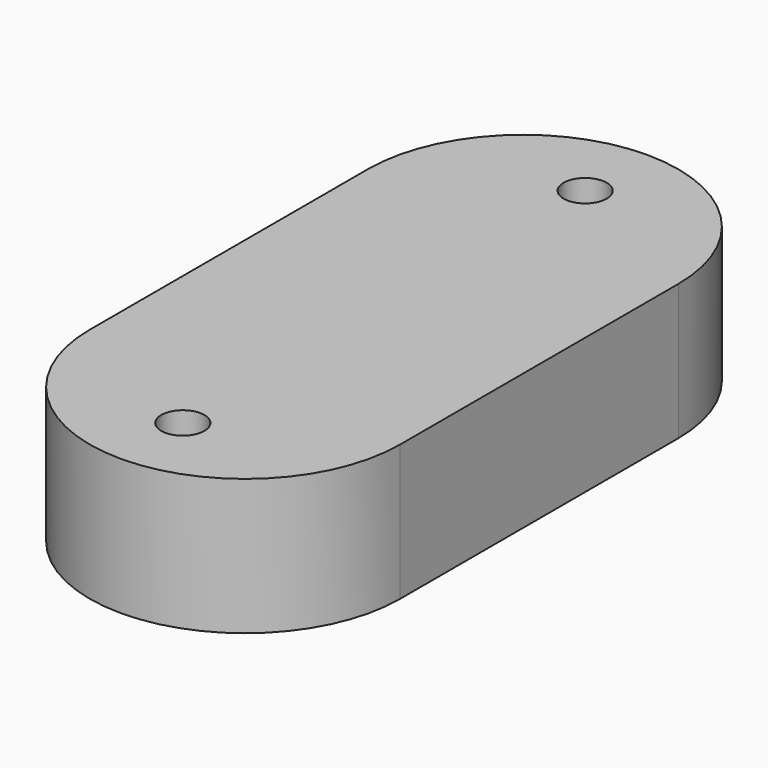
from build123d import *

# Parameters (mm, degrees)
F1_DEPTH = 15.75
F2_R     = 2.5
F3_DEPTH = 15.751


with BuildPart() as f1:
    # F0 (on Top) → F1 (new body)
    with BuildSketch(Plane.XY):
        with BuildLine():
            ThreePointArc((18, 20.15), (0, 38.15), (-18, 20.15))
            Line((-18, 20.15), (-18, -20.15))
            ThreePointArc((-18, -20.15), (0, -38.15), (18, -20.15))
            Line((18, -20.15), (18, 20.15))
        make_face()
    extrude(amount=F1_DEPTH)

    # F2 (on face) → F3 (cut, through all)
    with BuildSketch(Plane.XY.offset(15.75)):
        with Locations((0, 29.15)):
            Circle(F2_R)
        with Locations((0, -29.15)):
            Circle(F2_R)
    extrude(amount=-F3_DEPTH, mode=Mode.SUBTRACT)


solid = f1.part
